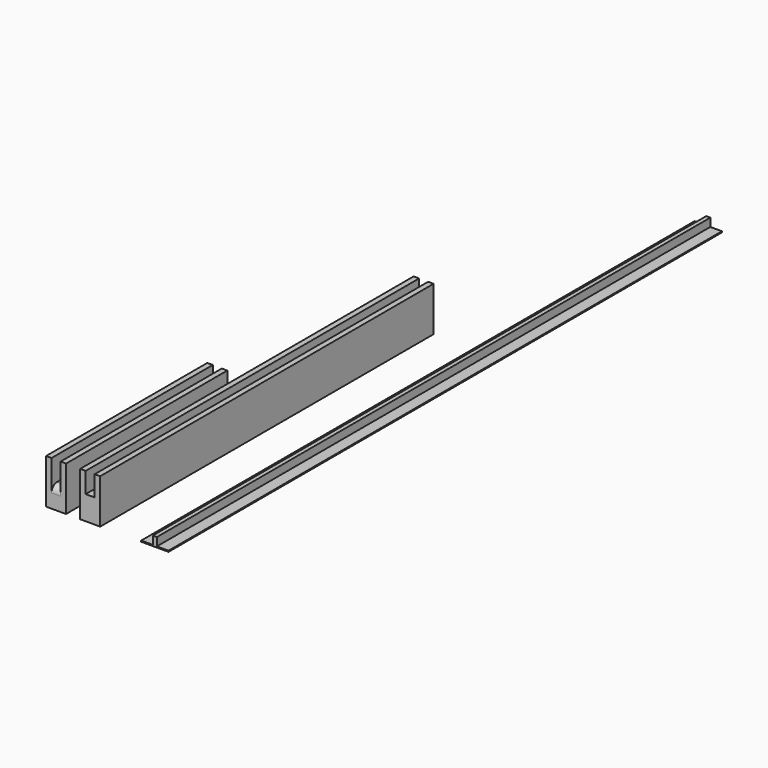
from build123d import *

# Parameters (mm, degrees)
F1_DEPTH = 154.94
F3_DEPTH = 74.93
F4_R     = 2.54
F6_DEPTH = 257.175


with BuildPart() as f1:
    # F0 (on Front) → F1 (new body)
    with BuildSketch(Plane.XZ):
        Polygon((-20.1168, 0), (-12.7, 0), (-12.7, 16.51), (-14.732, 16.51), (-14.732, 8.89), (-18.0848, 8.89), (-18.0848, 16.51), (-20.1168, 16.51), align=None)
    extrude(amount=-F1_DEPTH)


with BuildPart() as f3:
    # F2 (on Front) → F3 (new body)
    with BuildSketch(Plane.XZ):
        Polygon((-32.8168, 0), (-25.4, 0), (-25.4, 16.51), (-27.432, 16.51), (-27.432, 7.69853), (-30.7848, 7.69853), (-30.7848, 16.58853), (-32.8168, 16.58853), align=None)
    extrude(amount=-F3_DEPTH)

    # F4
    f4_edges = [f3.edges().sort_by_distance(p)[0] for p in [
        (-29.1084, 0, 7.69853),
    ]]
    fillet(f4_edges, radius=F4_R)


with BuildPart() as f6:
    # F5 (on Front) → F6 (new body)
    with BuildSketch(Plane.XZ):
        Polygon((2.54, 0.4064), (2.54, 0), (12.7, 0), (12.7, 0.4064), (8.382, 0.4064), (8.382, 3.4544), (6.858, 3.4544), (6.858, 0.4064), align=None)
    extrude(amount=-F6_DEPTH)


solid = Compound([f1.part, f3.part, f6.part])
